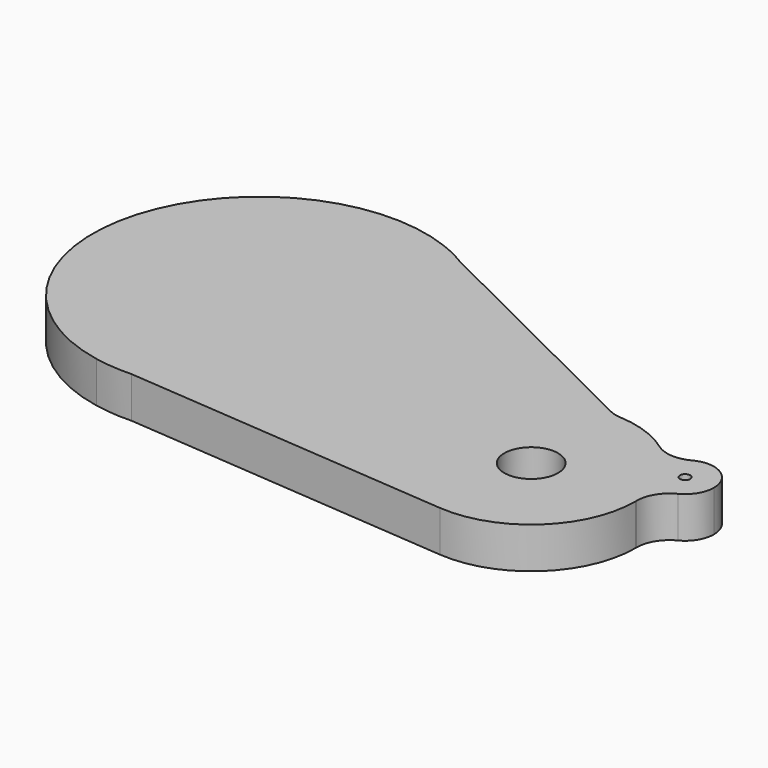
from build123d import *

# Parameters (mm, degrees)
F0_R     = 4.1529
F1_DEPTH = 6.35
F2_R     = 5.08
F3_R     = 0.79375
F4_DEPTH = 6.604


with BuildPart() as f1:
    # F0 (on Top) → F1 (new body)
    with BuildSketch(Plane.XY):
        with BuildLine():
            Line((-39.5852921817, 35.7330972108), (-43.6584469102, 37.7552635994))
            ThreePointArc((-43.6584469102, 37.7552635994), (-77.757072432, 20.950769545), (-57.9630675112, -11.5038857774))
            Line((-57.9630675112, -11.5038857774), (-52.1653779445, -11.9667752425))
            ThreePointArc((-52.1653779445, -11.9667752425), (-34.5169287333, -4.1314539733), (-27.2771428081, 13.7695381418))
            ThreePointArc((-27.2771428081, 13.7695381418), (-30.5639418609, 26.3581090295), (-39.5852921817, 35.7330972108))
        make_face()
        with BuildLine():
            ThreePointArc((-39.5852921817, 35.7330972108), (-41.5771437171, 36.8342695403), (-43.6584469102, 37.7552635994))
            Line((-43.6584469102, 37.7552635994), (-39.5852921817, 35.7330972108))
        make_face()
        with BuildLine():
            Line((-52.1653779445, -11.9667752425), (-57.9630675112, -11.5038857774))
            ThreePointArc((-57.9630675112, -11.5038857774), (-55.0773333512, -11.8995410396), (-52.1653779445, -11.9667752425))
        make_face()
        with BuildLine():
            Line((0, 16.0805053817), (-39.5852921817, 35.7330972108))
            ThreePointArc((-39.5852921817, 35.7330972108), (-30.5639418609, 26.3581090295), (-27.2771428081, 13.7695381418))
            ThreePointArc((-27.2771428081, 13.7695381418), (-34.5169287333, -4.1314539733), (-52.1653779445, -11.9667752425))
            Line((-52.1653779445, -11.9667752425), (-1.2798007555, -16.0294966658))
            ThreePointArc((-1.2798007555, -16.0294966658), (-16.0677481424, 0.6404084366), (0, 16.0805053817))
        make_face()
        with BuildLine():
            ThreePointArc((12.550681619, 10.0530116996), (6.9615064675, 14.4955193434), (0, 16.0805053817))
            ThreePointArc((0, 16.0805053817), (-16.0677481424, 0.6404084366), (-1.2798007555, -16.0294966658))
            ThreePointArc((-1.2798007555, -16.0294966658), (10.9087765216, -11.8144508181), (16.0805053817, 0))
            ThreePointArc((16.0805053817, 0), (15.91872127, 2.2752948071), (15.4366243175, 4.5048066565))
            ThreePointArc((15.4366243175, 4.5048066565), (12.8528968999, 6.6855358941), (12.550681619, 10.0530116996))
        make_face()
        Circle(F0_R, mode=Mode.SUBTRACT)
        with BuildLine():
            ThreePointArc((21.2413206768, 8.7367389351), (17.4619629936, 13.1316161013), (12.550681619, 10.0530116996))
            ThreePointArc((12.550681619, 10.0530116996), (14.2659723887, 7.4205582766), (15.4366243175, 4.5048066565))
            ThreePointArc((15.4366243175, 4.5048066565), (19.4149247594, 5.1449514054), (21.2413206768, 8.7367389351))
        make_face()
        with BuildLine():
            ThreePointArc((15.4366243175, 4.5048066565), (14.2659723887, 7.4205582766), (12.550681619, 10.0530116996))
            ThreePointArc((12.550681619, 10.0530116996), (12.8528968999, 6.6855358941), (15.4366243175, 4.5048066565))
        make_face()
    extrude(amount=F1_DEPTH)

    # F2
    f2_edges = [f1.edges().sort_by_distance(p)[0] for p in [
        (12.550682, 10.053012, 3.175),
        (15.436624, 4.504807, 3.175),
        (0, 16.080505, 3.175),
    ]]
    fillet(f2_edges, radius=F2_R)

    # F3 (on face) → F4 (cut)
    with BuildSketch(Plane.XY.offset(6.35)):
        with Locations((16.7963206768, 8.7367389351)):
            Circle(F3_R)
    extrude(amount=-F4_DEPTH, mode=Mode.SUBTRACT)


solid = f1.part
